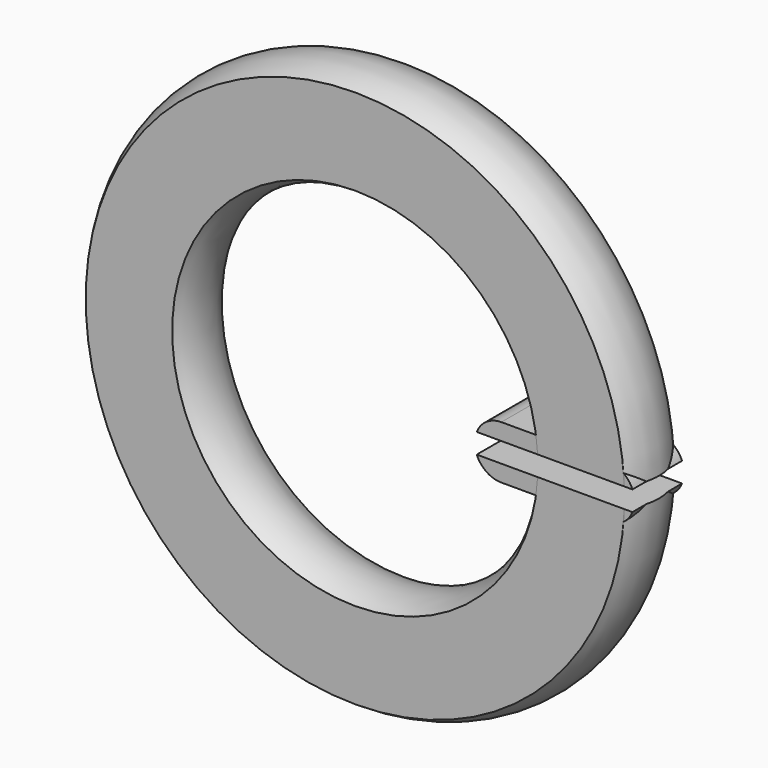
from build123d import *

# Parameters (mm, degrees)
PAD_DEPTH    = 2.33
SKETCH002_W  = 21.853373
SKETCH002_H  = 1.5
POCKET_DEPTH = 2.5


with BuildPart() as part:
    # Sketch → Revolution (revolve)
    with BuildSketch(Plane.XY):
        with BuildLine():
            ThreePointArc((20.25, -2.331845), (21, 0), (20.25, 2.331845))
            Line((13.75, 2.331845), (20.25, 2.331845))
            ThreePointArc((13.75, 2.331845), (13, 0), (13.75, -2.331845))
            Line((20.25, -2.331845), (13.75, -2.331845))
        make_face()
    revolve(axis=Axis((0, 0, 0), (0, 1, 0)))

    # Sketch001 → Pad (new body, symmetric)
    with BuildSketch(Plane.XZ):
        with BuildLine():
            ThreePointArc((11, 2), (9, 0), (11, -2))
            Line((11, -2), (19, -2))
            ThreePointArc((19, -2), (21, 0), (19, 2))
            Line((19, 2), (11, 2))
        make_face()
    extrude(amount=PAD_DEPTH, both=True)

    # Sketch002 → Pocket (cut, symmetric)
    with BuildSketch(Plane.XZ):
        with Locations((10.926686, 0)):
            Rectangle(SKETCH002_W, SKETCH002_H)
    extrude(amount=POCKET_DEPTH, both=True, mode=Mode.SUBTRACT)


solid = part.part
